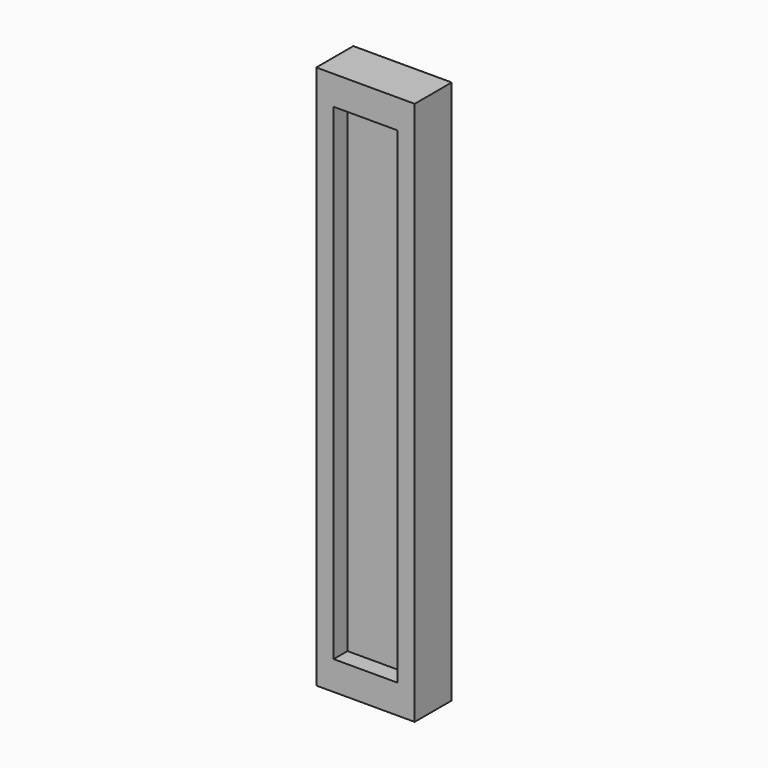
from build123d import *

# Parameters (mm, degrees)
BOX009_W               = 84
BOX009_H               = 11
BOX009_DEPTH           = 5
BOX008_W               = 94
BOX008_H               = 17
BOX008_DEPTH           = 8
CUT009_PITCH_ANGLE     = 90
CUT009_PLACEMENT_ANGLE = 90


with BuildPart() as obj1:
    # Box009 → Box009 (new body)
    with BuildSketch(Plane.XY.offset(-2)):
        with Locations((42, 5.5)):
            Rectangle(BOX009_W, BOX009_H)
    extrude(amount=BOX009_DEPTH)


with BuildPart() as slidingmodule:
    # Box008 → Box008 (new body)
    with BuildSketch(Plane(origin=(-5, -3, 0), x_dir=(1, 0, 0), z_dir=(0, 0, 1))):
        with Locations((47, 8.5)):
            Rectangle(BOX008_W, BOX008_H)
    extrude(amount=BOX008_DEPTH)

    # Cut009: cut obj1
    add(obj1.part, mode=Mode.SUBTRACT)


with BuildPart() as slidingmodule_1:
    # Cut009 pitch: moved
    add(slidingmodule.part.rotate(Axis((0, 0, 0), (0, 1, 0)), CUT009_PITCH_ANGLE))


with BuildPart() as slidingmodule_2:
    # Cut009 placement: moved
    add(slidingmodule_1.part.moved(Location((26.65, 47.3, 41))).rotate(Axis((26.65, 47.3, 41), (0, 0, 1)), CUT009_PLACEMENT_ANGLE))


solid = slidingmodule_2.part
